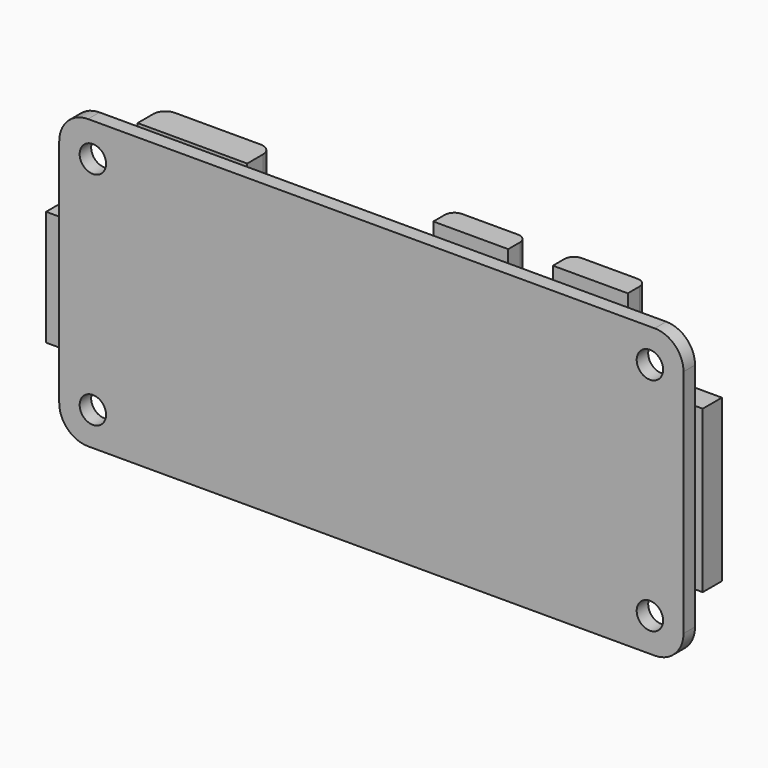
from build123d import *

# Parameters (mm, degrees)
SKETCH_W      = 65
SKETCH_H      = 30
SKETCH_R      = 1.375
PAD_DEPTH     = 1.5
FILLET_R      = 3
SKETCH001_W   = 15.5
SKETCH001_H   = 12
SKETCH001_W_2 = 12
SKETCH001_W_3 = 4
SKETCH001_H_2 = 16.82
SKETCH001_W_4 = 7.8
SKETCH001_H_3 = 6
PAD001_DEPTH  = 2.5
SKETCH002_W   = 11.41
SKETCH002_H   = 7.67
PAD002_DEPTH  = 3.3
FILLET001_R   = 1.25
FILLET002_R   = 1


with BuildPart() as part:
    # Sketch → Pad (new body)
    with BuildSketch(Plane.XZ):
        with Locations((0, 0.07)):
            Rectangle(SKETCH_W, SKETCH_H)
        with Locations((-29, 11.57)):
            Circle(SKETCH_R, mode=Mode.SUBTRACT)
        with Locations((-29, -11.43)):
            Circle(SKETCH_R, mode=Mode.SUBTRACT)
        with Locations((29, -11.43)):
            Circle(SKETCH_R, mode=Mode.SUBTRACT)
        with Locations((29, 11.57)):
            Circle(SKETCH_R, mode=Mode.SUBTRACT)
    extrude(amount=-PAD_DEPTH)

    # Fillet
    fillet_edges = [part.edges().sort_by_distance(p)[0] for p in [
        (-32.5, 0.75, 15.07),
        (-32.5, 0.75, -14.93),
        (32.5, 0.75, -14.93),
        (32.5, 0.75, 15.07),
    ]]
    fillet(fillet_edges, radius=FILLET_R)

    # Sketch001 (on Face5 of Fillet) → Pad001 (join)
    with BuildSketch(Plane(origin=(0, 1.5, 0), x_dir=(1, 0, 0), z_dir=(0, 1, 0))):
        with Locations((-27.32, 1.85)):
            Rectangle(SKETCH001_W, SKETCH001_H)
        with Locations((-6.69, -2.05)):
            Rectangle(SKETCH001_W_2, SKETCH001_H)
        with Locations((31.3, 0.08)):
            Rectangle(SKETCH001_W_3, SKETCH001_H_2)
        with Locations((21.6, -13.37)):
            Rectangle(SKETCH001_W_4, SKETCH001_H_3)
        with Locations((9.15, -13.37)):
            Rectangle(SKETCH001_W_4, SKETCH001_H_3)
    extrude(amount=PAD001_DEPTH)

    # Sketch002 (on Face5 of Pad001) → Pad002 (join)
    with BuildSketch(Plane(origin=(0, 1.5, 0), x_dir=(1, 0, 0), z_dir=(0, 1, 0))):
        with Locations((-19.835, -11.545)):
            Rectangle(SKETCH002_W, SKETCH002_H)
    extrude(amount=PAD002_DEPTH)

    # Fillet001
    fillet001_edges = [part.edges().sort_by_distance(p)[0] for p in [
        (-25.54, 4.8, 11.545),
        (-14.13, 4.8, 11.545),
    ]]
    fillet(fillet001_edges, radius=FILLET001_R)

    # Fillet002
    fillet002_edges = [part.edges().sort_by_distance(p)[0] for p in [
        (5.25, 4, 13.37),
        (13.05, 4, 13.37),
        (17.7, 4, 13.37),
        (25.5, 4, 13.37),
    ]]
    fillet(fillet002_edges, radius=FILLET002_R)


solid = part.part
